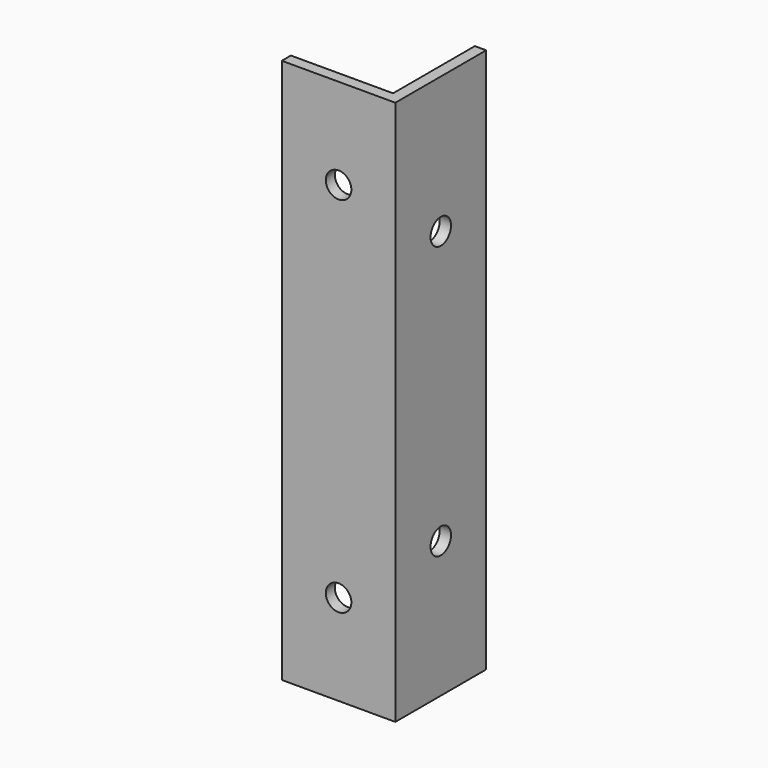
from build123d import *

# Parameters (mm, degrees)
F0_W     = 15.875
F0_H     = 15.875
F1_DEPTH = 38.1
F2_W     = 14.2875
F2_H     = 14.2875
F3_DEPTH = 76.2
F4_R     = 1.7859375
F5_DEPTH = 1.5875
F6_R     = 1.7859375
F7_DEPTH = 1.5875


with BuildPart() as f1:
    # F0 (on Top) → F1 (new body, symmetric)
    with BuildSketch(Plane.XY):
        Rectangle(F0_W, F0_H)
    extrude(amount=F1_DEPTH, both=True)

    # F2 (on face) → F3 (cut)
    with BuildSketch(Plane.XY.offset(38.1)):
        with Locations((-0.79375, 0.79375)):
            Rectangle(F2_W, F2_H)
    extrude(amount=-F3_DEPTH, mode=Mode.SUBTRACT)

    # F4 (on face) → F5 (cut, through all)
    with BuildSketch(Plane.XZ.offset(7.9375)):
        with Locations((0, -25.4)):
            Circle(F4_R)
        with Locations((0, 25.4)):
            Circle(F4_R)
    extrude(amount=-F5_DEPTH, mode=Mode.SUBTRACT)

    # F6 (on face) → F7 (cut, through all)
    with BuildSketch(Plane.YZ.offset(7.9375)):
        with Locations((0, -19.05)):
            Circle(F6_R)
        with Locations((0, 19.05)):
            Circle(F6_R)
    extrude(amount=-F7_DEPTH, mode=Mode.SUBTRACT)


solid = f1.part
